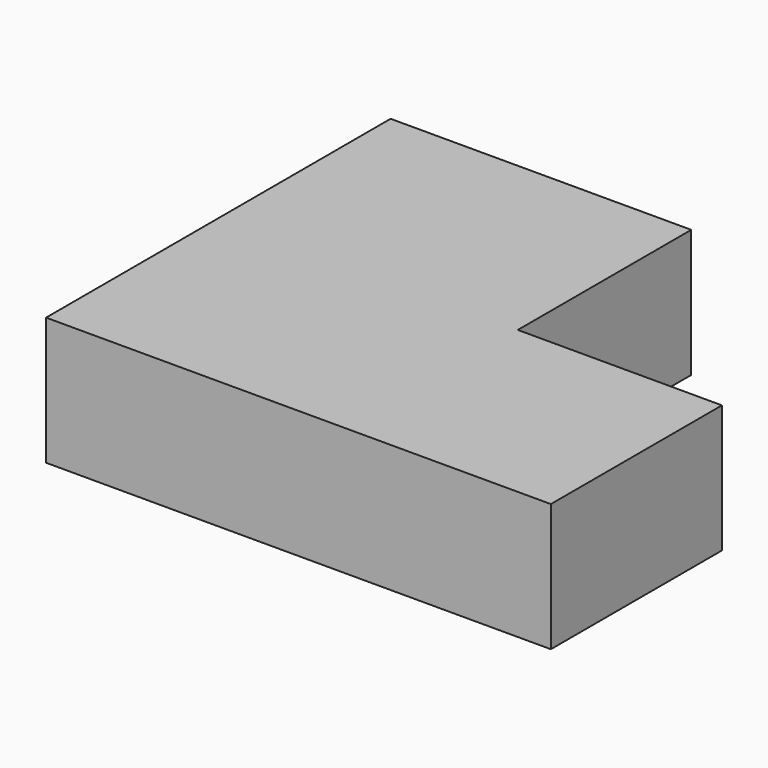
from build123d import *

# Parameters (mm, degrees)
PAD_DEPTH = 21


with BuildPart() as part:
    # Sketch → Pad (new body)
    with BuildSketch(Plane.XY):
        Polygon((-38.006424, 35.629467), (11.400633, 35.629467), (11.400633, 0), (44.946024, 0), (44.946024, -35.142773), (-38.006424, -35.142773), align=None)
    extrude(amount=PAD_DEPTH)


solid = part.part
